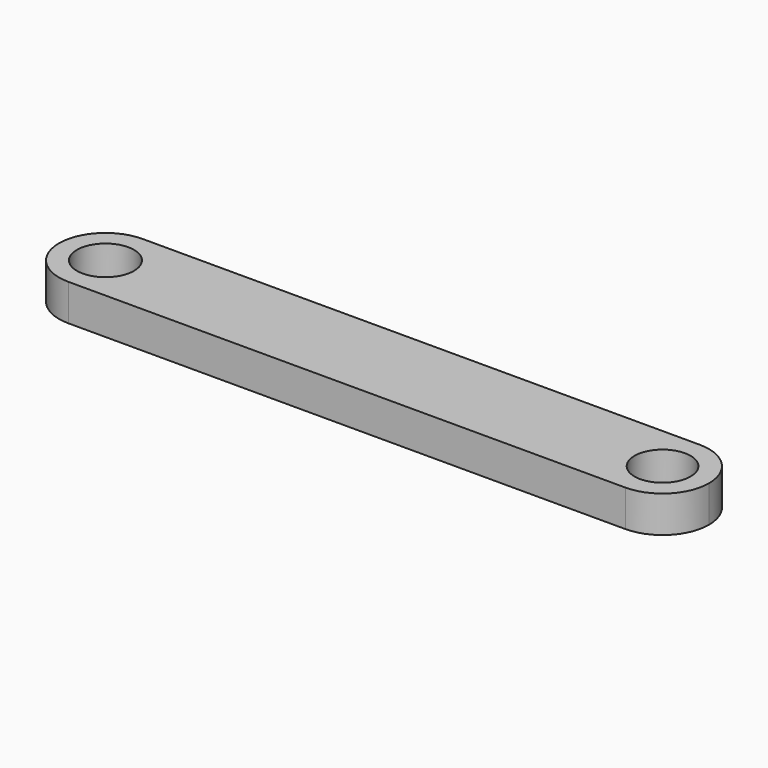
from build123d import *

# Parameters (mm, degrees)
F0_R     = 3.965073
F0_R_2   = 3.8989
F1_DEPTH = 5.08


with BuildPart() as f1:
    # F0 (on Top) → F1 (new body)
    with BuildSketch(Plane.XY):
        with BuildLine():
            Line((-6.472273, -6.909825), (-83.930702, -6.909825))
            ThreePointArc((-83.930702, -6.909825), (-88.494984, -8.800413), (-90.385571, -13.364694))
            ThreePointArc((-90.385571, -13.364694), (-88.494984, -17.928976), (-83.930702, -19.819564))
            Line((-83.930702, -19.819564), (-6.472273, -19.819564))
            ThreePointArc((-6.472273, -19.819564), (-1.907991, -17.928976), (-0.017404, -13.364694))
            ThreePointArc((-0.017404, -13.364694), (-1.907991, -8.800413), (-6.472273, -6.909825))
        make_face()
        with Locations((-83.930702, -13.364694)):
            Circle(F0_R, mode=Mode.SUBTRACT)
        with Locations((-6.472273, -13.364694)):
            Circle(F0_R_2, mode=Mode.SUBTRACT)
    extrude(amount=F1_DEPTH)


solid = f1.part
